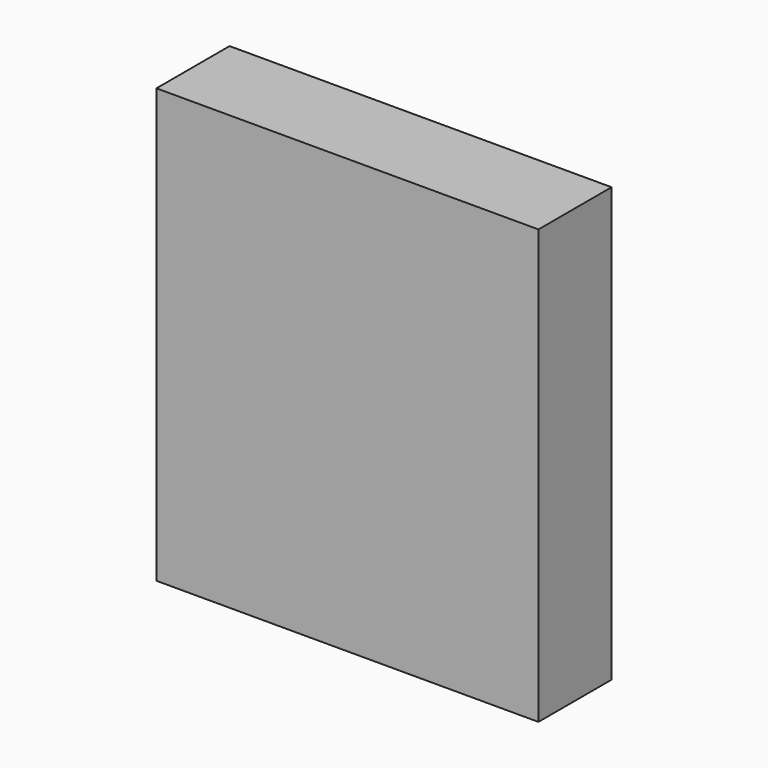
from build123d import *

# Parameters (mm, degrees)
F0_W      = 171.249866
F0_H      = 165.988192
F1_DEPTH  = 35
F1_FACE_W = 35
F1_FACE_H = 165.988192
F2_DEPTH  = 25


with BuildPart() as f1:
    # F0 (on Front) → F1 (new body)
    with BuildSketch(Plane.XZ):
        Rectangle(F0_W, F0_H)
    extrude(amount=-F1_DEPTH)

    # F1_face (on face) → F2 (cut)
    with BuildSketch(Plane(origin=(85.624933, 17.5, 0), x_dir=(0, 1, 0), z_dir=(1, 0, 0))):
        Rectangle(F1_FACE_W, F1_FACE_H)
    extrude(amount=-F2_DEPTH, mode=Mode.SUBTRACT)


solid = f1.part
